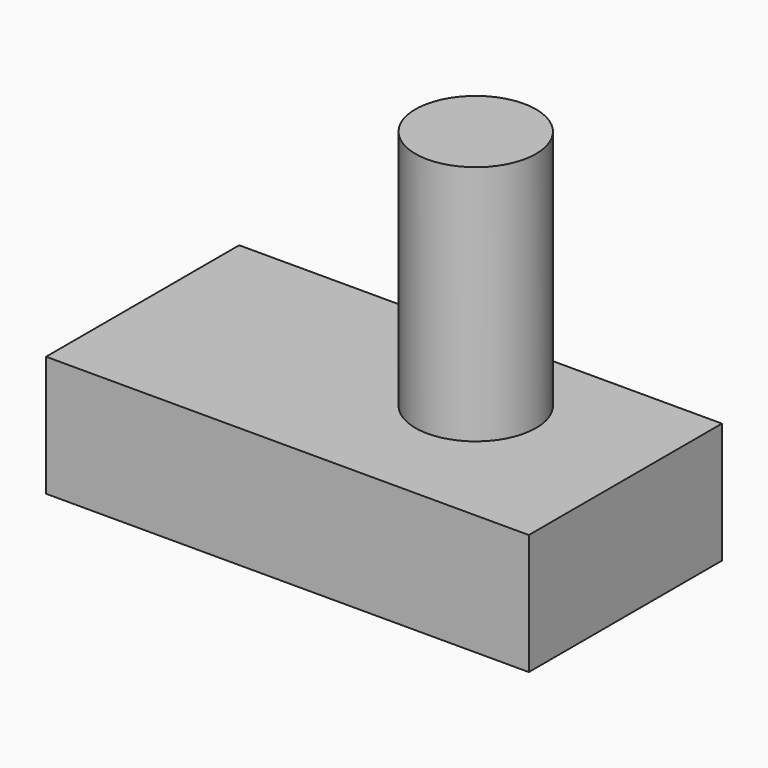
from build123d import *

# Parameters (mm, degrees)
SKETCH_W     = 20
SKETCH_H     = 10
PAD_DEPTH    = 5
SKETCH001_R  = 2.5
PAD001_DEPTH = 10


with BuildPart() as first_body:
    # Sketch → Pad (new body)
    with BuildSketch(Plane.XY):
        with Locations((10, -5)):
            Rectangle(SKETCH_W, SKETCH_H)
    extrude(amount=PAD_DEPTH)


with BuildPart() as second_body:
    # Sketch001 → Pad001 (new body)
    with BuildSketch(Plane.XY):
        Circle(SKETCH001_R)
    extrude(amount=PAD001_DEPTH)


with BuildPart() as second_body_1:
    # Body001 placement: moved
    add(second_body.part.moved(Location((13, -4, 5))))


solid = Compound([first_body.part, second_body_1.part])
